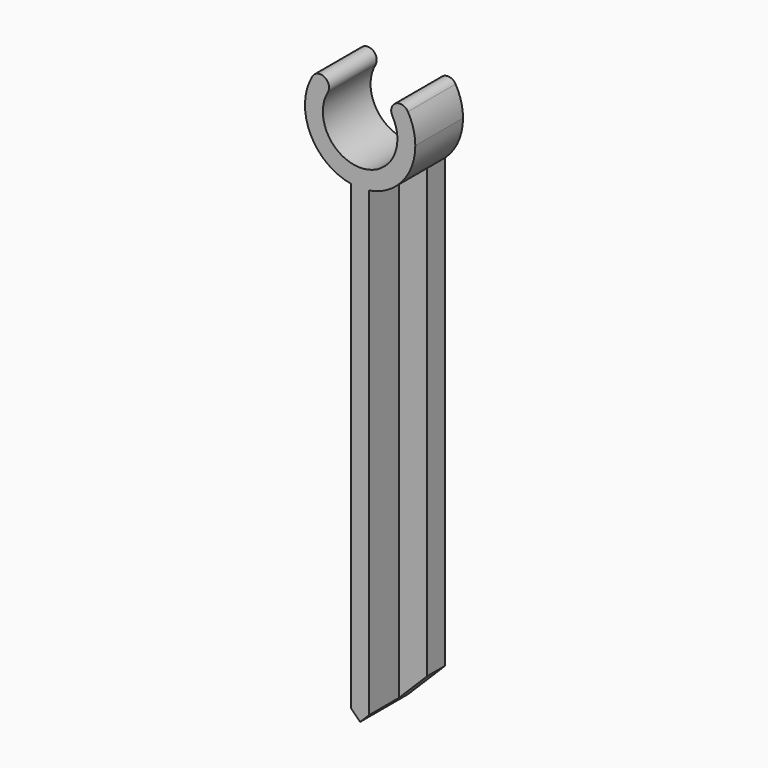
from build123d import *

# Parameters (mm, degrees)
F1_DEPTH = 8
F2_DEPTH = 3
F3_DEPTH = 8


with BuildPart() as f1:
    # F0 (on Front) → F1 (new body)
    with BuildSketch(Plane.XZ):
        with BuildLine():
            ThreePointArc((4.330127, 2.5), (4.829629, 1.294095), (5, 0))
            ThreePointArc((5, 0), (-1.294095, -4.829629), (-4.330127, 2.5))
            ThreePointArc((-4.330127, 2.5), (-4.769358, 4.13923), (-6.408588, 3.7))
            ThreePointArc((-6.408588, 3.7), (-7.31394, -1.125289), (-5, -5.455273))
            ThreePointArc((-5, -5.455273), (-3.234602, -6.655625), (-1.2, -7.302055))
            ThreePointArc((-1.2, -7.302055), (0, -7.4), (1.2, -7.302055))
            ThreePointArc((1.2, -7.302055), (3.234602, -6.655625), (5, -5.455273))
            ThreePointArc((5, -5.455273), (6.773478, -2.979933), (7.4, 0))
            ThreePointArc((7.4, 0), (7.147851, 1.915261), (6.408588, 3.7))
            ThreePointArc((6.408588, 3.7), (4.769358, 4.13923), (4.330127, 2.5))
        make_face()
    extrude(amount=F1_DEPTH)

    # F0 (on Front) → F2 (join)
    with BuildSketch(Plane.XZ):
        with BuildLine():
            ThreePointArc((-1.2, -7.302055), (-3.234602, -6.655625), (-5, -5.455273))
            Line((-5, -5.455273), (-5, -65.455273))
            Line((-5, -65.455273), (-1.2, -69.255273))
            Line((-1.2, -69.255273), (-1.2, -7.302055))
        make_face()
        with BuildLine():
            Line((5, -65.455273), (5, -5.455273))
            ThreePointArc((5, -5.455273), (3.234602, -6.655625), (1.2, -7.302055))
            Line((1.2, -7.302055), (1.2, -69.255273))
            Line((1.2, -69.255273), (5, -65.455273))
        make_face()
        with BuildLine():
            ThreePointArc((1.2, -7.302055), (0, -7.4), (-1.2, -7.302055))
            Line((-1.2, -7.302055), (-1.2, -69.255273))
            Line((-1.2, -69.255273), (0, -70.455273))
            Line((0, -70.455273), (1.2, -69.255273))
            Line((1.2, -69.255273), (1.2, -7.302055))
        make_face()
    extrude(amount=F2_DEPTH)

    # F0 (on Front) → F3 (join)
    with BuildSketch(Plane.XZ):
        with BuildLine():
            ThreePointArc((1.2, -7.302055), (0, -7.4), (-1.2, -7.302055))
            Line((-1.2, -7.302055), (-1.2, -69.255273))
            Line((-1.2, -69.255273), (0, -70.455273))
            Line((0, -70.455273), (1.2, -69.255273))
            Line((1.2, -69.255273), (1.2, -7.302055))
        make_face()
    extrude(amount=F3_DEPTH)


solid = f1.part
